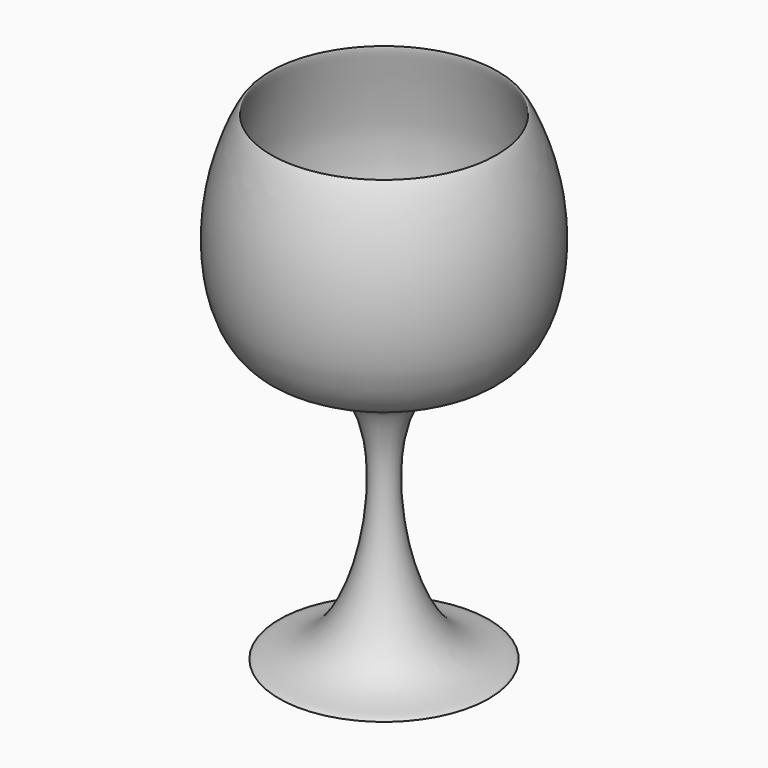
from build123d import *


with BuildPart() as f1:
    # F0 (on Front) → F1 (revolve)
    with BuildSketch(Plane.XZ):
        with BuildLine():
            add(Edge.make_bspline(
                [(0, 0), (2.4877597435, 0.4312462885), (6.9494705013, 1.2046715399), (11.4475334229, 1.2264852606), (15.5088877986, 0.4324518605), (17.7208101881, 0)],
                knots=[0, 0, 0, 0, 0.364637389, 0.6539645018, 1, 1, 1, 1], degree=3))
            add(Edge.make_bspline(
                [(0, 42.6760537617), (0.0334020215, 42.8010835878), (0.0648372289, 42.7574090418), (18.476120997, 45.3600270836), (23.9231002319, 64.9898853512), (16.4473675301, 87.44185619), (25.9918890743, 68.8633038879), (22.9481295236, 42.5866669903), (-2.1337069817, 44.9852405886), (4.0755345411, -0.8384672077), (18.2489983128, 0.8609260346), (17.7208101881, 0)],
                knots=[0.1463595923, 0.1463595923, 0.1463595923, 0.1463595923, 0.1559290495, 0.2418122368, 0.3441914931, 0.4296793457, 0.5069657574, 0.6159357652, 0.7071941075, 0.841099208, 0.9056871538, 0.9056871538, 0.9056871538, 0.9056871538], degree=3))
            Line((0, 42.6760537617), (0, 0))
        make_face()
    revolve(axis=Axis((0, 0, 28.0212662183), (0, 0, -1)))


solid = f1.part
